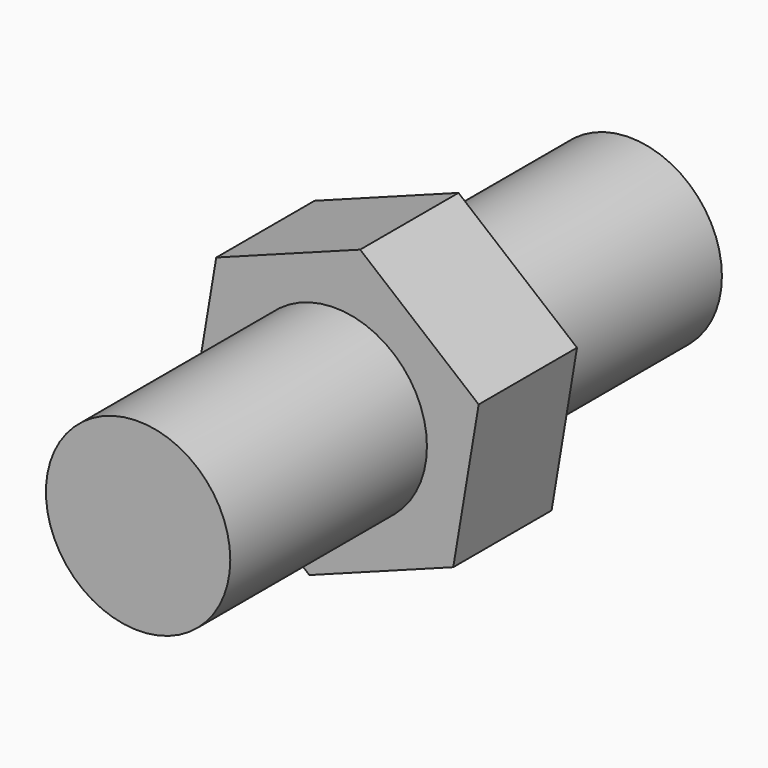
from build123d import *

# Parameters (mm, degrees)
F1_DEPTH = 6.35
F2_R     = 9.525
F3_DEPTH = 25.4
F5_SCALE = 0.5


with BuildPart() as f1:
    # F0 (on Front) → F1 (new body)
    with BuildSketch(Plane.XZ):
        Polygon((7.211127909, -9.756404553), (9.8366258623, 5.8999802627), (-2.4094521428, 16.0019205958), (-17.2810281013, 10.4474761131), (-19.9065260547, -5.2089087026), (-7.6604480495, -15.3108490356), align=None)
    extrude(amount=F1_DEPTH)

    # F2 (on face) → F3 (join)
    with BuildSketch(Plane.XZ.offset(6.35)):
        with Locations((-5.0349500962, 0.3455357801)):
            Circle(F2_R)
    extrude(amount=F3_DEPTH)

    # F4: F1 across face


with BuildPart() as f1_1:
    add(f1.part)
    add(f1.part.mirror(Plane(origin=(-5.0349500962, 0, 0.3455357801), x_dir=(1, 0, 0), z_dir=(0, 1, 0))))


with BuildPart() as f1_2:
    # F5: moved
    add(f1_1.part.scale(F5_SCALE))


solid = f1_2.part
